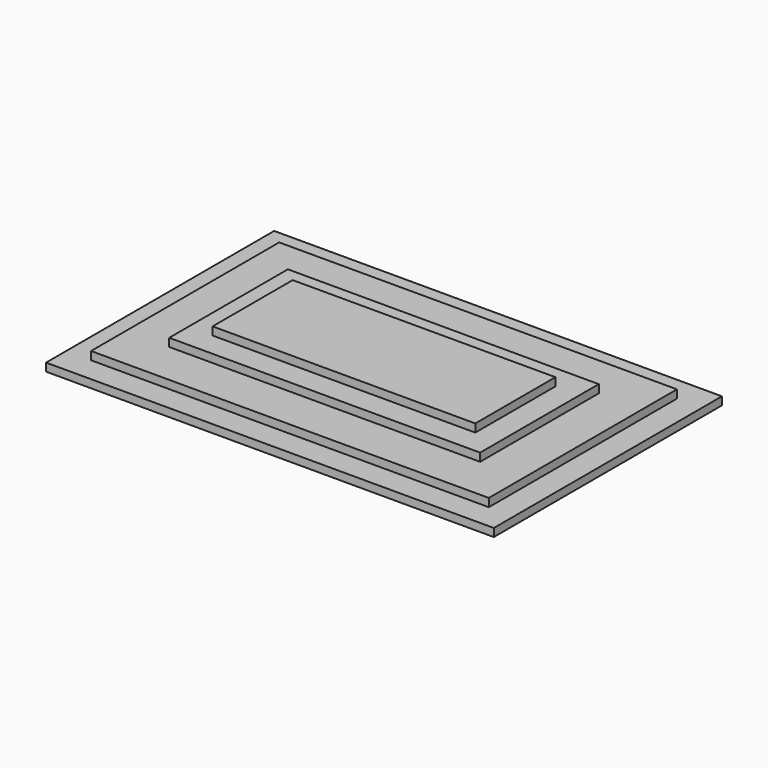
from build123d import *

# Parameters (mm, degrees)
F0_W     = 1418.969865
F0_H     = 903.661365
F0_W_2   = 1260.609941
F0_H_2   = 745.301442
F1_DEPTH = 25.4
F0_W_3   = 985.293784
F0_H_3   = 469.985285
F2_DEPTH = 51.308
F0_W_4   = 832.694292
F0_H_4   = 317.385793
F3_DEPTH = 76.962
F4_DEPTH = 102.616


with BuildPart() as f1:
    # F0 (on Top) → F1 (new body)
    with BuildSketch(Plane.XY):
        with Locations((905.08581, -890.909465)):
            Rectangle(F0_W, F0_H)
        with Locations((905.08581, -890.909465)):
            Rectangle(F0_W_2, F0_H_2, mode=Mode.SUBTRACT)
    extrude(amount=F1_DEPTH)


with BuildPart() as f2:
    # F0 (on Top) → F2 (new body)
    with BuildSketch(Plane.XY):
        with Locations((905.08581, -890.909465)):
            Rectangle(F0_W_2, F0_H_2)
        with Locations((905.085811, -890.909466)):
            Rectangle(F0_W_3, F0_H_3, mode=Mode.SUBTRACT)
    extrude(amount=F2_DEPTH)


with BuildPart() as f3:
    # F0 (on Top) → F3 (new body)
    with BuildSketch(Plane.XY):
        with Locations((905.085811, -890.909466)):
            Rectangle(F0_W_3, F0_H_3)
        with Locations((905.085811, -890.909465)):
            Rectangle(F0_W_4, F0_H_4, mode=Mode.SUBTRACT)
    extrude(amount=F3_DEPTH)


with BuildPart() as f4:
    # F0 (on Top) → F4 (new body)
    with BuildSketch(Plane.XY):
        with Locations((905.085811, -890.909465)):
            Rectangle(F0_W_4, F0_H_4)
    extrude(amount=F4_DEPTH)


solid = Compound([f1.part, f2.part, f3.part, f4.part])
